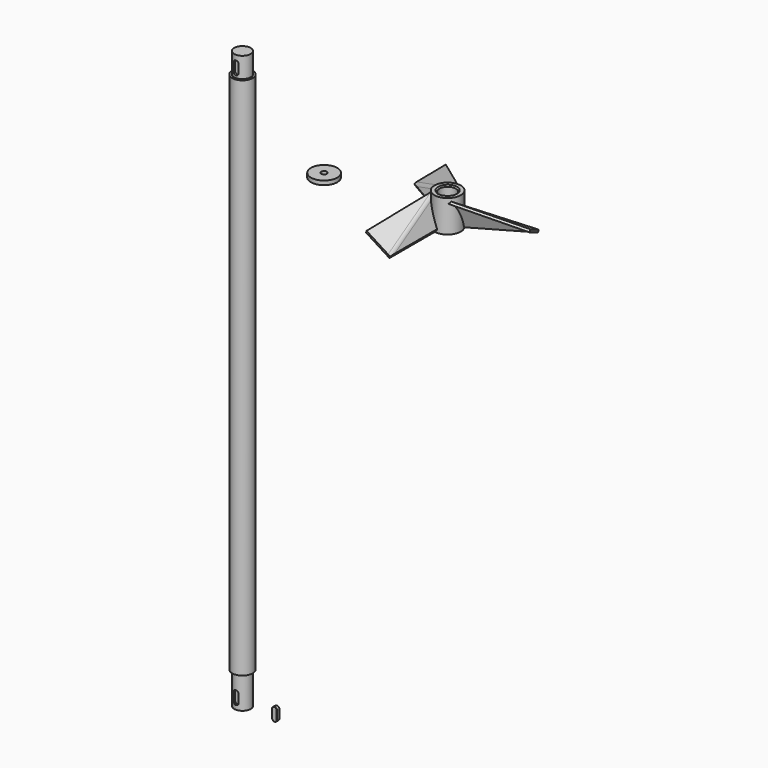
from build123d import *

# Parameters (mm, degrees)
F12_DEPTH      = 6
F13_R          = 32
F14_DEPTH      = 100
F15_R          = 32
F15_R_2        = 20
F16_DEPTH      = 70
F16_DEPTH_BACK = 8
F17_SIZE       = 3
F19_R          = 5
F20_R          = 13
F21_COUNT      = 3
F26_DEPTH      = 5
F29_DEPTH      = 213.865565134
F31_DEPTH      = 8
F32_SIZE       = 0.4
F33_R          = 32
F33_R_2        = 7
F34_DEPTH      = 10
F35_D          = 13.2
F35_DEPTH      = 30
F35_TIP        = 3.9656800856
F36_DEPTH      = 5


with BuildPart() as f12:
    # F11 (on line) + F9 (on line) → F12 (new body)
    with BuildSketch(Plane(origin=(18.7036752691, -11.4330577599, 38.9902914797), x_dir=(0.9083803729, 0.1176579191, -0.4012501866), z_dir=(0.4181448291, -0.2556007798, 0.8716783485))):
        Polygon((-20.5901358366, -167.9293339421), (-50.6999662671, 18.1308662927), (-88.9019056321, -152.6485581961), align=None)
    with BuildSketch(Plane(origin=(0, 0, 0), x_dir=(0, 1, 0), z_dir=(0.9205048535, 0, 0.3907311285))):
        Polygon((-175, 0), (0, 0), (0, 70), align=None)
    extrude(amount=-F12_DEPTH, dir=(0.4181448291, -0.2556007798, 0.8716783485))

    # F13 (on Top) → F14 (cut, symmetric)
    with BuildSketch(Plane.XY):
        Circle(F13_R)
    extrude(amount=F14_DEPTH, both=True, mode=Mode.SUBTRACT)

    # F15 (on Top) → F16 (join, two sides)
    with BuildSketch(Plane.XY) as f16_sk:
        Circle(F15_R)
        Circle(F15_R_2, mode=Mode.SUBTRACT)
    extrude(amount=F16_DEPTH)
    extrude(f16_sk.sketch, amount=-F16_DEPTH_BACK)

    # F17
    f17_edges = [f12.edges().sort_by_distance(p)[0] for p in [
        (-20, 0, 70),
    ]]
    chamfer(f17_edges, length=F17_SIZE)

    # F18: union 

    # F19
    f19_edges = [f12.edges().sort_by_distance(p)[0] for p in [
        (-14.71205, -95.387247, 23.518824),
    ]]
    fillet(f19_edges, radius=F19_R)

    # F20
    f20_edges = [f12.edges().sort_by_distance(p)[0] for p in [
        (-12.026201, -98.053222, 28.331953),
    ]]
    fillet(f20_edges, radius=F20_R)

    # F21: F12 ×3 about axis
    f21_axis = Axis((0, 0, -8), (0, 0, 1))


with BuildPart() as f12_1:
    add(f12.part)
    for i in range(1, F21_COUNT):
        add(f12.part.rotate(f21_axis, i * 360 / F21_COUNT))

    # F28 (on face) → F29 (cut, through all)
    with BuildSketch(Plane(origin=(0, 0, -8), x_dir=(1, 0, 0), z_dir=(0, 0, -1))):
        with BuildLine():
            Line((-6, 23.3), (-6, 19.0787840283))
            ThreePointArc((-6, 19.0787840283), (0, 20), (6, 19.0787840283))
            Line((6, 19.0787840283), (6, 23.3))
            Line((6, 23.3), (-6, 23.3))
        make_face()
    extrude(amount=-F29_DEPTH, mode=Mode.SUBTRACT)


with BuildPart() as f23:
    # F22 (on Front) → F23 (revolve)
    with BuildSketch(Plane.XZ):
        with BuildLine():
            Line((-498.1391332102, -1194.135434866), (-498.1391332102, 205.864565134))
            Line((-498.1391332102, 205.864565134), (-518.1391332102, 205.864565134))
            Line((-518.1391332102, 205.864565134), (-518.1391332102, 156.364565134))
            ThreePointArc((-518.1391332102, 156.364565134), (-518.2855798196, 156.0110117435), (-518.6391332102, 155.864565134))
            Line((-518.6391332102, 155.864565134), (-523.1391332102, 155.864565134))
            Line((-523.1391332102, 155.864565134), (-523.1391332102, -1116.135434866))
            Line((-523.1391332102, -1116.135434866), (-518.6391332102, -1116.135434866))
            ThreePointArc((-518.6391332102, -1116.135434866), (-518.2855798196, -1116.2818814754), (-518.1391332102, -1116.635434866))
            Line((-518.1391332102, -1116.635434866), (-518.1391332102, -1194.135434866))
            Line((-518.1391332102, -1194.135434866), (-498.1391332102, -1194.135434866))
        make_face()
    revolve(axis=Axis((-498.1391332102, 0, -494.135434866), (0, 0, -1)))

    # F25 (on offset) → F26 (cut)
    with BuildSketch(Plane.XZ.offset(20)):
        with BuildLine():
            Line((-504.1391332102, -1158.135434866), (-504.1391332102, -1178.135434866))
            ThreePointArc((-504.1391332102, -1178.135434866), (-498.1391332102, -1184.135434866), (-492.1391332102, -1178.135434866))
            Line((-492.1391332102, -1178.135434866), (-492.1391332102, -1158.135434866))
            ThreePointArc((-492.1391332102, -1158.135434866), (-498.1391332102, -1152.135434866), (-504.1391332102, -1158.135434866))
        make_face()
    extrude(amount=-F26_DEPTH, mode=Mode.SUBTRACT)

    # F35
    with Locations(Plane(origin=(0, 0, -1194.135434866), x_dir=(1, 0, 0), z_dir=(0, 0, -1))):
        with Locations((-498.1391332102, 0)):
            Hole(F35_D / 2, depth=F35_DEPTH)
            with Locations((0, 0, -(F35_DEPTH + F35_TIP / 2))):  # 118° drill point
                Cone(0, F35_D / 2, F35_TIP, mode=Mode.SUBTRACT)

    # F25 (on offset) → F36 (cut)
    with BuildSketch(Plane.XZ.offset(20)):
        with BuildLine():
            Line((-504.1391332102, 187.864565134), (-504.1391332102, 167.864565134))
            ThreePointArc((-504.1391332102, 167.864565134), (-498.1391332102, 161.864565134), (-492.1391332102, 167.864565134))
            Line((-492.1391332102, 167.864565134), (-492.1391332102, 187.864565134))
            ThreePointArc((-492.1391332102, 187.864565134), (-498.1391332102, 193.864565134), (-504.1391332102, 187.864565134))
        make_face()
    extrude(amount=-F36_DEPTH, mode=Mode.SUBTRACT)


with BuildPart() as f31:
    # F30 (on offset) → F31 (new body)
    with BuildSketch(Plane.XZ.offset(20)):
        with BuildLine():
            Line((-392.1391332102, -1178.135434866), (-392.1391332102, -1158.135434866))
            ThreePointArc((-392.1391332102, -1158.135434866), (-398.1391332102, -1152.135434866), (-404.1391332102, -1158.135434866))
            Line((-404.1391332102, -1158.135434866), (-404.1391332102, -1178.135434866))
            ThreePointArc((-404.1391332102, -1178.135434866), (-398.1391332102, -1184.135434866), (-392.1391332102, -1178.135434866))
        make_face()
    extrude(amount=F31_DEPTH)

    # F32
    f32_edges = [f31.edges().sort_by_distance(p)[0] for p in [
        (-392.139133, -28, -1168.135435),
        (-398.139133, -28, -1152.135435),
        (-404.139133, -28, -1168.135435),
        (-398.139133, -28, -1184.135435),
        (-392.139133, -20, -1168.135435),
        (-398.139133, -20, -1152.135435),
        (-404.139133, -20, -1168.135435),
        (-398.139133, -20, -1184.135435),
    ]]
    chamfer(f32_edges, length=F32_SIZE)


with BuildPart() as f34:
    # F33 (on Top) → F34 (new body)
    with BuildSketch(Plane.XY):
        with Locations((-300, 0)):
            Circle(F33_R)
        with Locations((-300, 0)):
            Circle(F33_R_2, mode=Mode.SUBTRACT)
    extrude(amount=F34_DEPTH)


solid = Compound([f12_1.part, f23.part, f31.part, f34.part])
